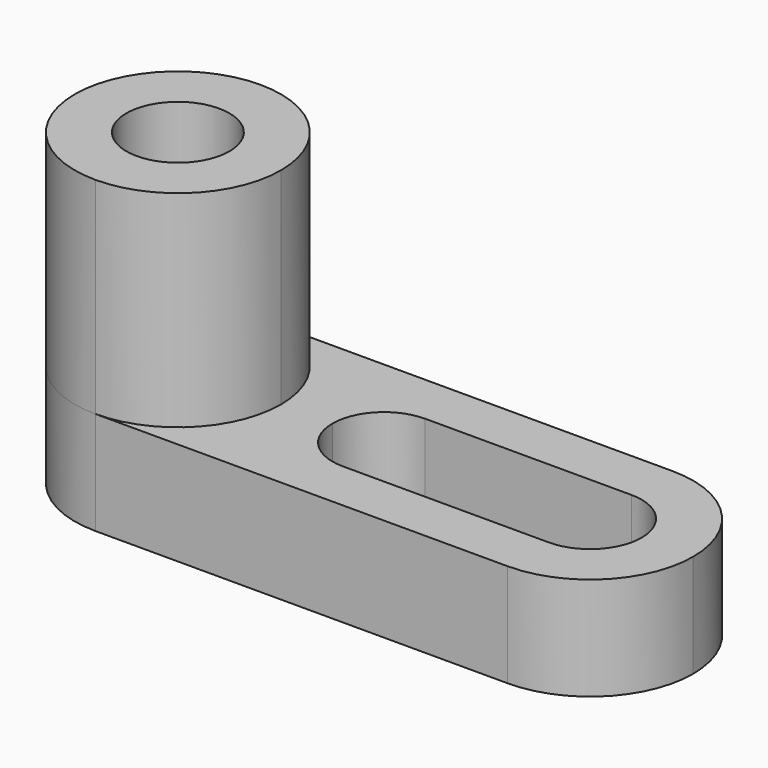
from build123d import *

# Parameters (mm, degrees)
F0_W     = 76.2
F0_H     = 12.7
F1_DEPTH = 25.4
F3_DEPTH = 12.7
F5_DEPTH = 25.4
F6_R     = 6.35
F7_DEPTH = 38.1
F9_DEPTH = 12.7


with BuildPart() as f1:
    # F0 (on Front) → F1 (new body)
    with BuildSketch(Plane.XZ):
        with Locations((-0.619031, -16.85523)):
            Rectangle(F0_W, F0_H)
    extrude(amount=F1_DEPTH)

    # F2 (on face) → F3 (cut)
    with BuildSketch(Plane.XY.offset(-10.50523)):
        with BuildLine():
            ThreePointArc((-38.719031, -12.7), (-34.999288, -3.719744), (-26.019031, 0))
            Line((-26.019031, 0), (-38.719031, 0))
            Line((-38.719031, 0), (-38.719031, -12.7))
        make_face()
        with BuildLine():
            ThreePointArc((-26.019031, -25.4), (-34.999288, -21.680256), (-38.719031, -12.7))
            Line((-38.719031, -12.7), (-38.719031, -25.4))
            Line((-38.719031, -25.4), (-26.019031, -25.4))
        make_face()
        with BuildLine():
            Line((37.480969, -25.4), (37.480969, -12.7))
            ThreePointArc((37.480969, -12.7), (33.761225, -21.680256), (24.780969, -25.4))
            Line((24.780969, -25.4), (37.480969, -25.4))
        make_face()
        with BuildLine():
            Line((37.480969, 0), (24.780969, 0))
            ThreePointArc((24.780969, 0), (33.761225, -3.719744), (37.480969, -12.7))
            Line((37.480969, -12.7), (37.480969, 0))
        make_face()
    extrude(amount=-F3_DEPTH, mode=Mode.SUBTRACT)

    # F4 (on face) → F5 (join)
    with BuildSketch(Plane.XY.offset(-10.50523)):
        with BuildLine():
            ThreePointArc((-26.019031, -25.4), (-17.038775, -21.680256), (-13.319031, -12.7))
            ThreePointArc((-13.319031, -12.7), (-17.038775, -3.719744), (-26.019031, 0))
            ThreePointArc((-26.019031, 0), (-38.719031, -12.7), (-26.019031, -25.4))
        make_face()
    extrude(amount=F5_DEPTH)

    # F6 (on face) → F7 (cut)
    with BuildSketch(Plane.XY.offset(14.89477)):
        with Locations((-26.019031, -12.7)):
            Circle(F6_R)
    extrude(amount=-F7_DEPTH, mode=Mode.SUBTRACT)

    # F8 (on face) → F9 (cut)
    with BuildSketch(Plane.XY.offset(-10.50523)):
        with BuildLine():
            ThreePointArc((-6.969031, -12.7), (-5.10916, -17.190128), (-0.619031, -19.05))
            Line((-0.619031, -19.05), (24.780969, -19.05))
            ThreePointArc((24.780969, -19.05), (29.271097, -17.190128), (31.130969, -12.7))
            ThreePointArc((31.130969, -12.7), (29.271097, -8.209872), (24.780969, -6.35))
            Line((24.780969, -6.35), (-0.619031, -6.35))
            ThreePointArc((-0.619031, -6.35), (-5.10916, -8.209872), (-6.969031, -12.7))
        make_face()
    extrude(amount=-F9_DEPTH, mode=Mode.SUBTRACT)


solid = f1.part
